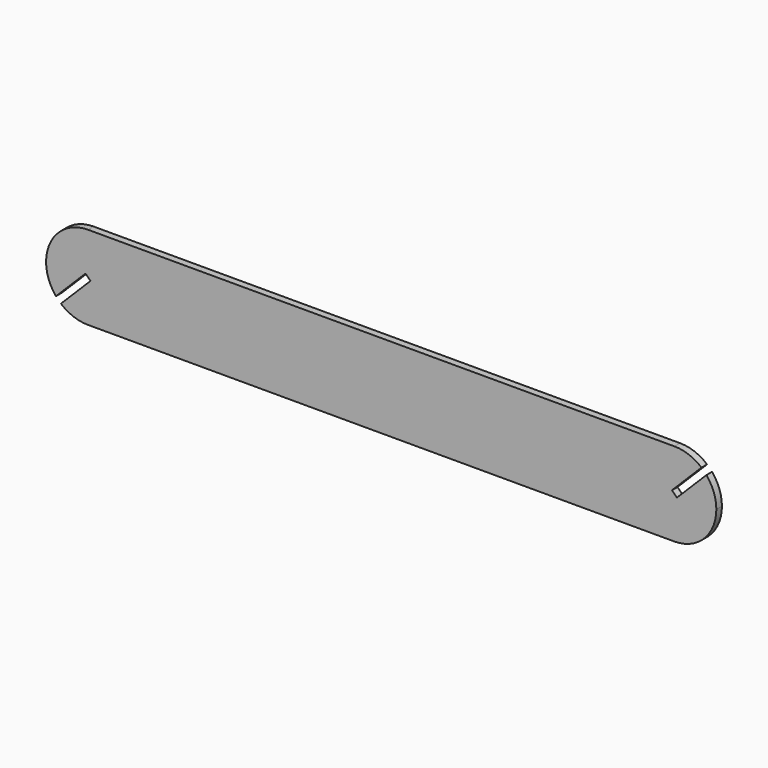
from build123d import *

# Parameters (mm, degrees)
F1_DEPTH = 1.5875


with BuildPart() as f1:
    # F0 (on Front) → F1 (new body)
    with BuildSketch(Plane.XZ):
        with BuildLine():
            ThreePointArc((72.825499, 7.273031), (69.949905, 8.944307), (66.675, 9.525))
            Line((66.675, 9.525), (-66.675, 9.525))
            ThreePointArc((-66.675, 9.525), (-75.315287, 4.008873), (-73.948031, -6.150499))
            Line((-73.948031, -6.150499), (-67.236266, 0.561266))
            Line((-67.236266, 0.561266), (-66.675, 0))
            Line((-66.675, 0), (-66.113734, -0.561266))
            Line((-66.113734, -0.561266), (-72.825499, -7.273031))
            ThreePointArc((-72.825499, -7.273031), (-69.949905, -8.944307), (-66.675, -9.525))
            Line((-66.675, -9.525), (66.675, -9.525))
            ThreePointArc((66.675, -9.525), (73.410192, -6.735192), (76.2, 0))
            Line((76.2, 0), (67.797532, 0))
            Line((67.797532, 0), (67.236266, -0.561266))
            Line((67.236266, -0.561266), (66.675, 0))
            Line((66.675, 0), (66.113734, 0.561266))
            Line((66.113734, 0.561266), (72.825499, 7.273031))
        make_face()
        with BuildLine():
            ThreePointArc((76.2, 0), (75.619307, 3.274905), (73.948031, 6.150499))
            Line((73.948031, 6.150499), (67.797532, 0))
            Line((67.797532, 0), (76.2, 0))
        make_face()
    extrude(amount=F1_DEPTH)


solid = f1.part
